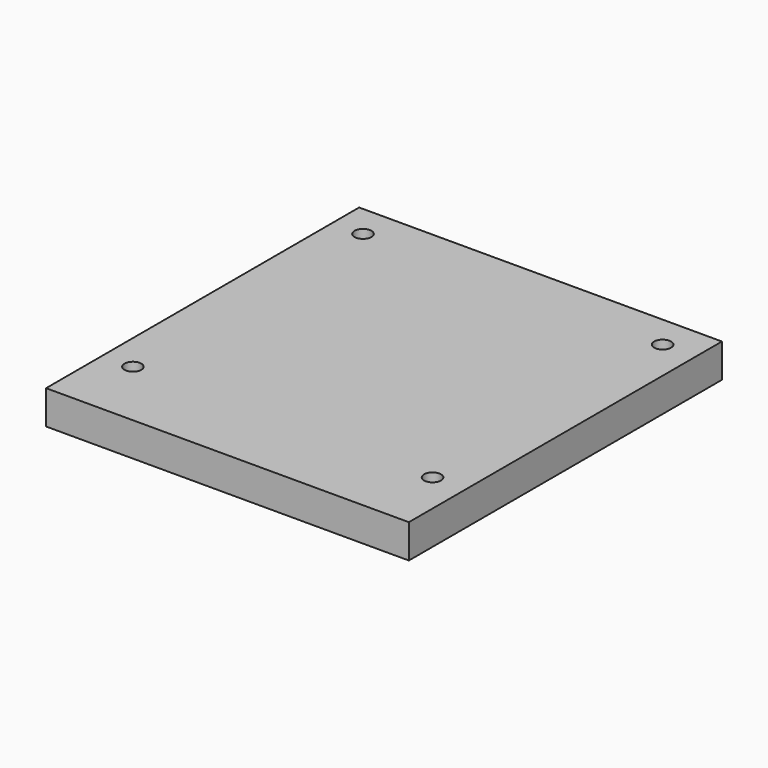
from build123d import *

# Parameters (mm, degrees)
F0_W     = 272.904978
F0_H     = 294.355361
F1_DEPTH = 25.4
F3_D     = 12.7


with BuildPart() as f1:
    # F0 (on Top) → F1 (new body)
    with BuildSketch(Plane.XY):
        with Locations((-34.33422, -5.295636)):
            Rectangle(F0_W, F0_H)
    extrude(amount=F1_DEPTH)

    # F3 (through all)
    with Locations(Plane.XY.offset(25.4)):
        with Locations((-147.98297, 117.04582), (77.382833, 117.04582), (-147.98297, -99.305384), (77.382833, -99.305384)):
            Hole(F3_D / 2)


solid = f1.part
